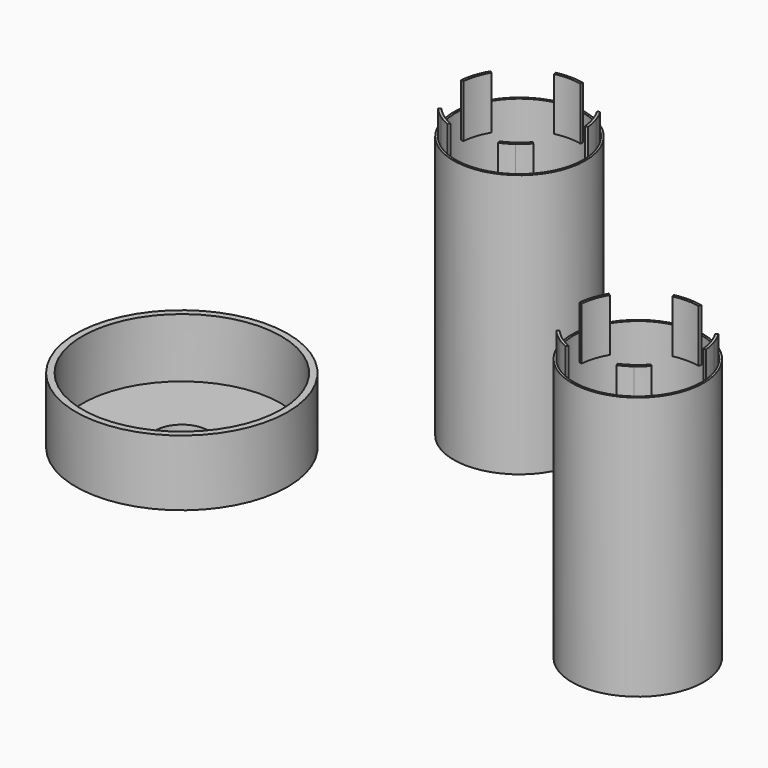
from build123d import *

# Parameters (mm, degrees)
F4_R          = 25
F4_R_2        = 24.2
F5_DEPTH      = 0.8
F6_DEPTH      = 100
F8_DEPTH      = 10
F8_DEPTH_BACK = 10
F4_R_3        = 10
F10_DEPTH     = 2.5
F11_R         = 40.25
F11_R_2       = 37.75
F11_R_3       = 10
F12_DEPTH     = 2.5
F13_DEPTH     = 25


with BuildPart() as f5:
    # F4 (on Top) → F5 (new body)
    with BuildSketch(Plane.XY):
        Circle(F4_R)
        Circle(F4_R_2, mode=Mode.SUBTRACT)
    extrude(amount=F5_DEPTH)

    # F4 (on Top) → F6 (join)
    with BuildSketch(Plane.XY):
        Circle(F4_R)
        Circle(F4_R_2, mode=Mode.SUBTRACT)
    extrude(amount=F6_DEPTH)

    # F7 (on face) → F8 (join, two sides)
    with BuildSketch(Plane.XY.offset(100)) as f8_sk:
        with BuildLine():
            Line((-17.361242785, -15.3891926026), (-18.1095722154, -16.05251987))
            ThreePointArc((-18.1095722154, -16.05251987), (-16.2628138698, -17.9209621683), (-14.2244031055, -19.5782112639))
            ThreePointArc((-14.2244031055, -19.5782112639), (-12.0183619863, -21.0047369697), (-9.6706880499, -22.1837281051))
            Line((-9.6706880499, -22.1837281051), (-9.2710728412, -21.2670451256))
            ThreePointArc((-9.2710728412, -21.2670451256), (-11.5217354579, -20.1367726321), (-13.6366178532, -18.7691942695))
            ThreePointArc((-13.6366178532, -18.7691942695), (-15.5907967677, -17.1804265415), (-17.361242785, -15.3891926026))
        make_face()
        with BuildLine():
            Line((-20.0009109693, 11.7560010377), (-20.8630192007, 12.2627252204))
            ThreePointArc((-20.8630192007, 12.2627252204), (-22.0693337105, 9.9289732386), (-23.0155676943, 7.4782112639))
            ThreePointArc((-23.0155676943, 7.4782112639), (-23.6905700664, 4.9393207962), (-24.0863861248, 2.3422219038))
            Line((-24.0863861248, 2.3422219038), (-23.091080913, 2.2454358748))
            ThreePointArc((-23.091080913, 2.2454358748), (-22.7116208901, 4.7352166311), (-22.064511178, 7.1691942695))
            ThreePointArc((-22.064511178, 7.1691942695), (-21.1573777721, 9.5186850883), (-20.0009109693, 11.7560010377))
        make_face()
        with BuildLine():
            Line((-5.2155172414, 23.6313008509), (-5, 22.6548008157))
            ThreePointArc((-5, 22.6548008157), (-2.5148181918, 23.0632974542), (0, 23.2))
            ThreePointArc((0, 23.2), (2.5148181918, 23.0632974542), (5, 22.6548008157))
            Line((5, 22.6548008157), (5.2155172414, 23.6313008509))
            ThreePointArc((5.2155172414, 23.6313008509), (2.6232155276, 24.0574051031), (0, 24.2))
            ThreePointArc((0, 24.2), (-2.6232155276, 24.0574051031), (-5.2155172414, 23.6313008509))
        make_face()
        with BuildLine():
            ThreePointArc((23.0155676943, 7.4782112639), (22.0693337105, 9.9289732386), (20.8630192007, 12.2627252204))
            Line((20.8630192007, 12.2627252204), (20.0009109693, 11.7560010377))
            ThreePointArc((20.0009109693, 11.7560010377), (21.1573777721, 9.5186850883), (22.064511178, 7.1691942695))
            ThreePointArc((22.064511178, 7.1691942695), (22.7116208901, 4.7352166311), (23.091080913, 2.2454358748))
            Line((23.091080913, 2.2454358748), (24.0863861248, 2.3422219038))
            ThreePointArc((24.0863861248, 2.3422219038), (23.6905700664, 4.9393207962), (23.0155676943, 7.4782112639))
        make_face()
        with BuildLine():
            ThreePointArc((14.2244031055, -19.5782112639), (16.2628138698, -17.9209621683), (18.1095722154, -16.05251987))
            Line((18.1095722154, -16.05251987), (17.361242785, -15.3891926026))
            ThreePointArc((17.361242785, -15.3891926026), (15.5907967677, -17.1804265415), (13.6366178532, -18.7691942695))
            ThreePointArc((13.6366178532, -18.7691942695), (11.5217354579, -20.1367726321), (9.2710728412, -21.2670451256))
            Line((9.2710728412, -21.2670451256), (9.6706880499, -22.1837281051))
            ThreePointArc((9.6706880499, -22.1837281051), (12.0183619863, -21.0047369697), (14.2244031055, -19.5782112639))
        make_face()
    extrude(amount=F8_DEPTH)
    extrude(f8_sk.sketch, amount=-F8_DEPTH_BACK)


with BuildPart() as f9_1:
    # F9: copy of F5
    add(f5.part.moved(Location((116.6, -89.6, 0))))


with BuildPart() as f5_1:
    add(f5.part)

    # F4 (on Top) → F10 (join)
    with BuildSketch(Plane.XY):
        Circle(F4_R_2)
        Circle(F4_R_3, mode=Mode.SUBTRACT)
    extrude(amount=F10_DEPTH)


with BuildPart() as f12:
    # F11 (on Top) → F12 (new body)
    with BuildSketch(Plane.XY):
        with Locations((-73.309071362, -68.6444267631)):
            Circle(F11_R)
        with Locations((-73.309071362, -68.6444267631)):
            Circle(F11_R_2, mode=Mode.SUBTRACT)
        with Locations((-73.309071362, -68.6444267631)):
            Circle(F11_R_2)
        with Locations((-73.309071362, -68.6444267631)):
            Circle(F11_R_3, mode=Mode.SUBTRACT)
    extrude(amount=F12_DEPTH)

    # F11 (on Top) → F13 (join)
    with BuildSketch(Plane.XY):
        with Locations((-73.309071362, -68.6444267631)):
            Circle(F11_R)
        with Locations((-73.309071362, -68.6444267631)):
            Circle(F11_R_2, mode=Mode.SUBTRACT)
    extrude(amount=F13_DEPTH)


solid = Compound([f9_1.part, f5_1.part, f12.part])
